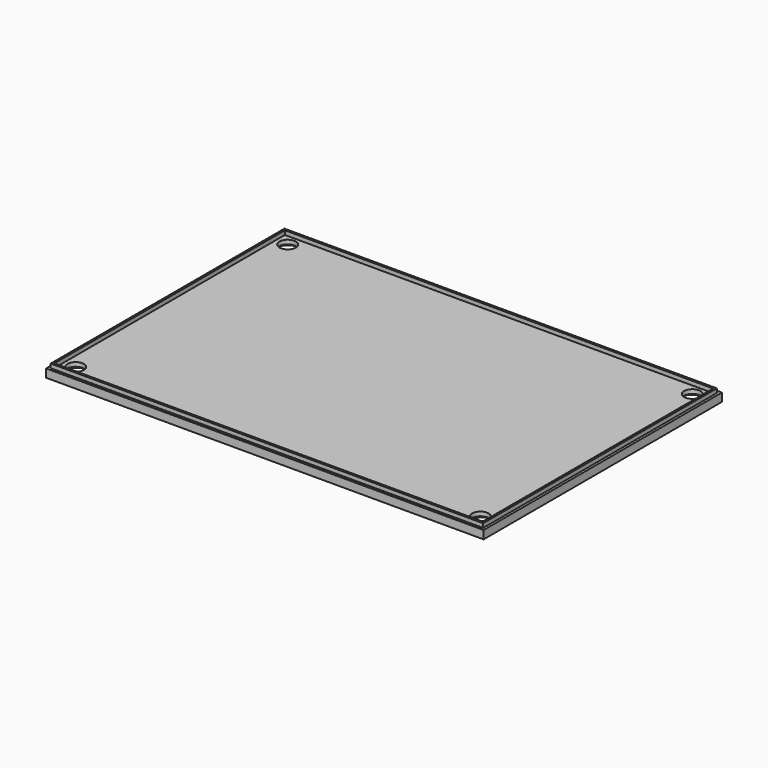
from build123d import *

# Parameters (mm, degrees)
F0_W     = 106.5
F0_H     = 72.5
F1_DEPTH = 2
F2_R     = 2
F3_DEPTH = 2
F4_R     = 3.5
F5_DEPTH = 1
F5_TAPER = 20
F6_W     = 105.25
F6_H     = 71.125
F6_W_2   = 104.25
F6_H_2   = 70.125
F7_DEPTH = 1


with BuildPart() as f1:
    # F0 (on Top) → F1 (new body)
    with BuildSketch(Plane.XY):
        with Locations((-53.25, 36.25)):
            Rectangle(F0_W, F0_H)
    extrude(amount=F1_DEPTH)

    # F2 (on face) → F3 (cut, through all)
    with BuildSketch(Plane.XY.offset(2)):
        with Locations((-102.5, 68.5)):
            Circle(F2_R)
        with Locations((-4, 68.5)):
            Circle(F2_R)
        with Locations((-4, 4)):
            Circle(F2_R)
        with Locations((-102.5, 4)):
            Circle(F2_R)
    extrude(amount=-F3_DEPTH, mode=Mode.SUBTRACT)

    # F4 (on face) → F5 (cut)
    with BuildSketch(Plane(origin=(0, 0, 0), x_dir=(1, 0, 0), z_dir=(0, 0, -1))):
        with Locations((-102.5, -4)):
            Circle(F4_R)
        with Locations((-4, -4)):
            Circle(F4_R)
        with Locations((-102.5, -68.5)):
            Circle(F4_R)
        with Locations((-4, -68.5)):
            Circle(F4_R)
    extrude(amount=-F5_DEPTH, taper=F5_TAPER, mode=Mode.SUBTRACT)

    # F6 (on face) → F7 (join)
    with BuildSketch(Plane.XY.offset(2)):
        with Locations((-53.25, 36.1875)):
            Rectangle(F6_W, F6_H)
        with Locations((-53.25, 36.1875)):
            Rectangle(F6_W_2, F6_H_2, mode=Mode.SUBTRACT)
    extrude(amount=F7_DEPTH)


solid = f1.part
